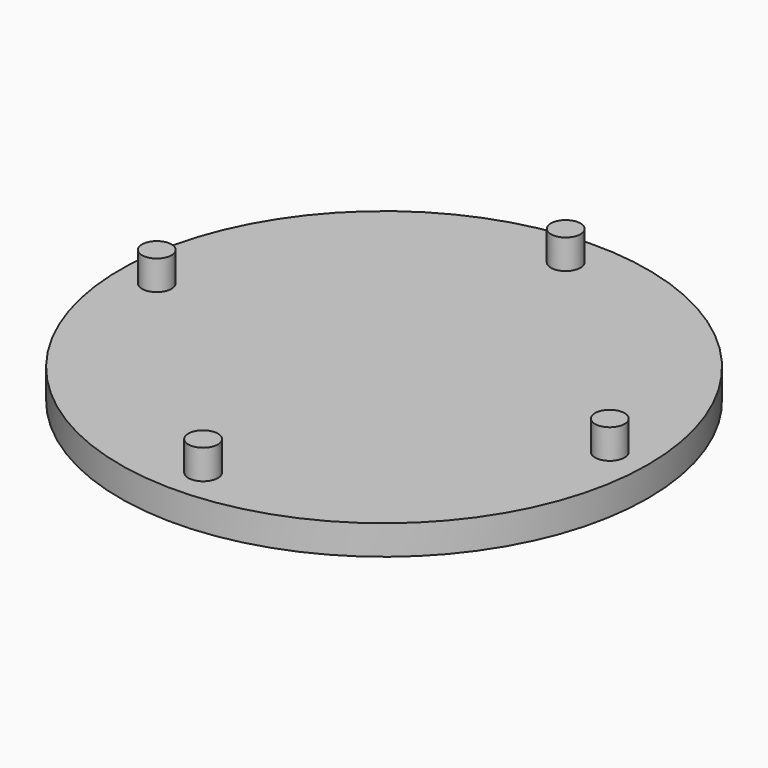
from build123d import *

# Parameters (mm, degrees)
F0_R     = 15.875
F1_DEPTH = 1.778
F3_R     = 0.889
F4_DEPTH = 1.778


with BuildPart() as f1:
    # F0 (on Top) → F1 (new body)
    with BuildSketch(Plane.XY):
        Circle(F0_R)
    extrude(amount=-F1_DEPTH)

    # F3 (on face) → F4 (join)
    with BuildSketch(Plane.XY):
        with Locations((0, 13.652203)):
            Circle(F3_R)
        with Locations((-13.659894, -0.015021)):
            Circle(F3_R)
        with Locations((0.062219, -13.682245)):
            Circle(F3_R)
        with Locations((13.674476, -0.124876)):
            Circle(F3_R)
    extrude(amount=F4_DEPTH)


solid = f1.part
